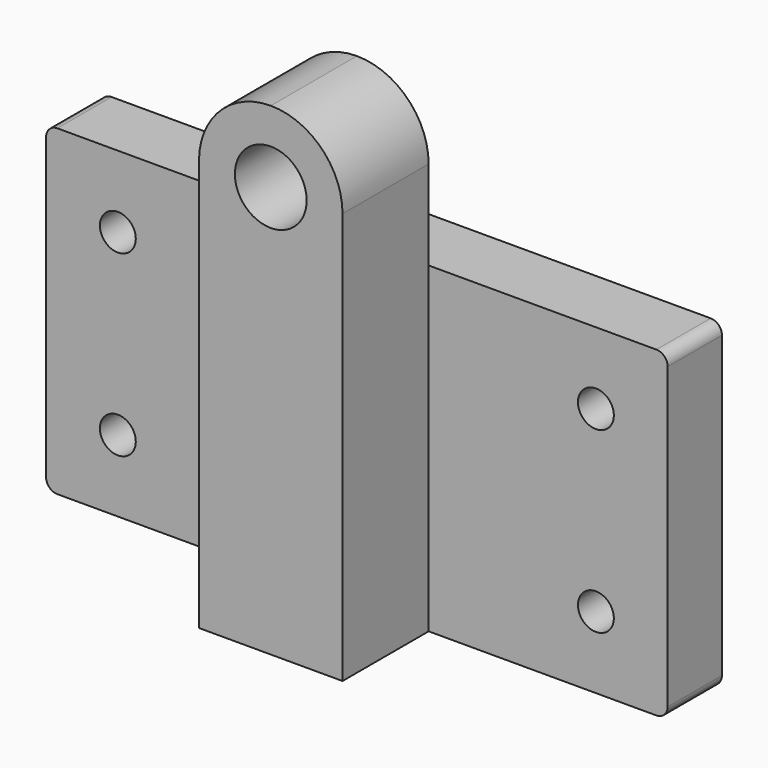
from build123d import *

# Parameters (mm, degrees)
F0_W     = 25.4
F0_H     = 57
F0_R     = 3.175
F1_DEPTH = 12
F0_R_2   = 6.35
F2_DEPTH = 19.05


with BuildPart() as f1:
    # F0 (on Front) → F1 (new body)
    with BuildSketch(Plane.XZ):
        Rectangle(F0_W, F0_H)
        with BuildLine():
            Line((-12.7, 28.5), (-53, 28.5))
            ThreePointArc((-53, 28.5), (-54.4142135624, 27.9142135624), (-55, 26.5))
            Line((-55, 26.5), (-55, -26.5))
            ThreePointArc((-55, -26.5), (-54.4142135624, -27.9142135624), (-53, -28.5))
            Line((-53, -28.5), (-12.7, -28.5))
            Line((-12.7, -28.5), (-12.7, 28.5))
        make_face()
        with Locations((-42.3, -15.8)):
            Circle(F0_R, mode=Mode.SUBTRACT)
        with Locations((-42.3, 15.8)):
            Circle(F0_R, mode=Mode.SUBTRACT)
        with BuildLine():
            Line((53, 28.5), (12.7, 28.5))
            Line((12.7, 28.5), (12.7, -28.5))
            Line((12.7, -28.5), (53, -28.5))
            ThreePointArc((53, -28.5), (54.4142135624, -27.9142135624), (55, -26.5))
            Line((55, -26.5), (55, 26.5))
            ThreePointArc((55, 26.5), (54.4142135624, 27.9142135624), (53, 28.5))
        make_face()
        with Locations((42.3, -15.8)):
            Circle(F0_R, mode=Mode.SUBTRACT)
        with Locations((42.3, 15.8)):
            Circle(F0_R, mode=Mode.SUBTRACT)
    extrude(amount=-F1_DEPTH)

    # F0 (on Front) → F2 (join)
    with BuildSketch(Plane.XZ):
        Rectangle(F0_W, F0_H)
        with BuildLine():
            Line((-12.7, 44.3), (-12.7, 28.5))
            Line((-12.7, 28.5), (12.7, 28.5))
            Line((12.7, 28.5), (12.7, 44.3))
            ThreePointArc((12.7, 44.3), (0, 31.6), (-12.7, 44.3))
        make_face()
        with BuildLine():
            ThreePointArc((0, 57), (-8.9802561211, 53.2802561211), (-12.7, 44.3))
            ThreePointArc((-12.7, 44.3), (0, 31.6), (12.7, 44.3))
            ThreePointArc((12.7, 44.3), (8.9802561211, 53.2802561211), (0, 57))
        make_face()
        with Locations((0, 44.3)):
            Circle(F0_R_2, mode=Mode.SUBTRACT)
    extrude(amount=F2_DEPTH)


solid = f1.part
